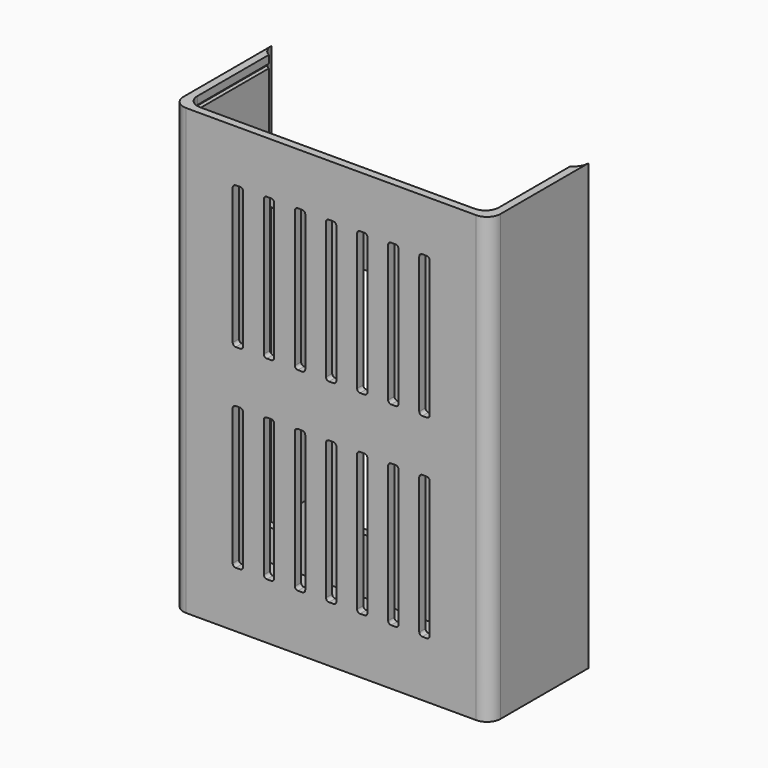
from build123d import *

# Parameters (mm, degrees)
PAD_DEPTH              = 85.8
POCKET_DEPTH           = 85
SKETCH002_W            = 7
SKETCH002_H            = 54.5
POCKET001_DEPTH        = 4.5
POCKET002_DEPTH        = 5
LINEARPATTERN_COUNT    = 7
LINEARPATTERN_PITCH    = 6
SKETCH004_W            = 58.2
SKETCH004_H            = 3
POCKET003_DEPTH        = 20
PAD001_DEPTH           = 6
LINEARPATTERN001_COUNT = 3
LINEARPATTERN001_PITCH = 18
POCKET004_DEPTH        = 5
PAD002_DEPTH           = 50
SKETCH009_W            = 19
SKETCH009_H            = 0.8
POCKET005_DEPTH        = 0.8
SKETCH010_W            = 22
SKETCH010_H            = 0.8
POCKET006_DEPTH        = 0.8


with BuildPart() as part:
    # Sketch → Pad (new body)
    with BuildSketch(Plane.XY.offset(-0.8)):
        with BuildLine():
            Line((-30.6, -5.8), (-30.6, -26.999987))
            ThreePointArc((-30.6, -26.999987), (-29.838478, -28.838464), (-28, -29.599987))
            Line((-28, -29.599987), (28, -29.599987))
            ThreePointArc((28, -29.599987), (29.838478, -28.838464), (30.6, -26.999987))
            Line((30.6, -26.999987), (30.6, -5.8))
            ThreePointArc((27.799996, -8.599987), (29.779893, -7.779892), (30.6, -5.8))
            Line((27.799996, -8.599987), (-27.799996, -8.599987))
            ThreePointArc((-30.6, -5.8), (-29.779893, -7.779892), (-27.799996, -8.599987))
        make_face()
    extrude(amount=PAD_DEPTH)

    # Sketch001 → Pocket (cut)
    with BuildSketch(Plane.XY.offset(85)):
        with BuildLine():
            Line((-29.1, -10.099987), (-29.1, -25.499987))
            ThreePointArc((-29.1, -25.499987), (-28.338478, -27.338464), (-26.5, -28.099987))
            Line((-26.5, -28.099987), (26.5, -28.099987))
            ThreePointArc((26.5, -28.099987), (28.338478, -27.338464), (29.1, -25.499987))
            Line((29.1, -25.499987), (29.1, -10.099987))
            Line((29.1, -10.099987), (-29.1, -10.099987))
        make_face()
    extrude(amount=-POCKET_DEPTH, mode=Mode.SUBTRACT)

    # Sketch002 → Pocket001 (cut, symmetric)
    with BuildSketch(Plane(origin=(0, -8.599987, -0.8), x_dir=(-1, 0, 0), z_dir=(0, 1, 0))):
        with Locations((24.9, 34.04)):
            Rectangle(SKETCH002_W, SKETCH002_H)
    extrude(amount=POCKET001_DEPTH, both=True, mode=Mode.SUBTRACT)

    # Sketch003 → Pocket002 (cut)
    with BuildSketch(Plane(origin=(0, -29.599987, -0.8), x_dir=(1, 0, 0), z_dir=(0, -1, 0))):
        with BuildLine():
            Line((17.572869, 75.790869), (18.427131, 75.790869))
            ThreePointArc((19, 75.218), (18.832211, 75.62308), (18.427131, 75.790869))
            Line((19, 75.218), (19, 48.8736))
            ThreePointArc((18.427131, 48.300731), (18.832211, 48.46852), (19, 48.8736))
            Line((18.427131, 48.300731), (17.572869, 48.300731))
            ThreePointArc((17, 48.8736), (17.167789, 48.46852), (17.572869, 48.300731))
            Line((17, 48.8736), (17, 75.218))
            ThreePointArc((17.572869, 75.790869), (17.167789, 75.62308), (17, 75.218))
        make_face()
        with BuildLine():
            Line((17.572869, 38.291469), (18.427131, 38.291469))
            ThreePointArc((19, 37.7186), (18.832211, 38.12368), (18.427131, 38.291469))
            Line((19, 37.7186), (19, 11.3742))
            ThreePointArc((18.427131, 10.801331), (18.832211, 10.96912), (19, 11.3742))
            Line((18.427131, 10.801331), (17.572869, 10.801331))
            ThreePointArc((17, 11.3742), (17.167789, 10.96912), (17.572869, 10.801331))
            Line((17, 11.3742), (17, 37.7186))
            ThreePointArc((17.572869, 38.291469), (17.167789, 38.12368), (17, 37.7186))
        make_face()
    pocket002 = extrude(amount=-POCKET002_DEPTH, mode=Mode.SUBTRACT)

    # LinearPattern: Pocket002 ×7
    with Locations(*[(-i * LINEARPATTERN_PITCH, 0, 0) for i in range(1, LINEARPATTERN_COUNT)]):
        add(pocket002, mode=Mode.SUBTRACT)

    # Sketch004 → Pocket003 (cut)
    with BuildSketch(Plane.XY.offset(85)):
        with Locations((0, -8.599987)):
            Rectangle(SKETCH004_W, SKETCH004_H)
    extrude(amount=-POCKET003_DEPTH, mode=Mode.SUBTRACT)

    # Sketch005 → Pad001 (new body)
    with BuildSketch(Plane(origin=(0, -10.099987, -0.8), x_dir=(1, 0, 0), z_dir=(0, -1, 0))):
        with BuildLine():
            Line((17.67, 56.57), (18.33, 56.57))
            ThreePointArc((18.9, 56), (18.733051, 56.403051), (18.33, 56.57))
            Line((18.9, 56), (18.9, 11.6228))
            ThreePointArc((18.33, 11.0528), (18.733051, 11.219749), (18.9, 11.6228))
            Line((18.33, 11.0528), (17.67, 11.0528))
            ThreePointArc((17.1, 11.6228), (17.266949, 11.219749), (17.67, 11.0528))
            Line((17.1, 11.6228), (17.1, 56))
            ThreePointArc((17.67, 56.57), (17.266949, 56.403051), (17.1, 56))
        make_face()
    pad001 = extrude(amount=-PAD001_DEPTH)

    # LinearPattern001: Pad001 ×3
    with Locations(*[(-i * LINEARPATTERN001_PITCH, 0, 0) for i in range(1, LINEARPATTERN001_COUNT)]):
        add(pad001)

    # Sketch006 → Pocket004 (cut)
    with BuildSketch(Plane(origin=(0, -8.599987, -0.8), x_dir=(-1, 0, 0), z_dir=(0, 1, 0))):
        with BuildLine():
            Line((-11.5, 56.5), (-7.5, 56.5))
            ThreePointArc((-5, 54), (-5.732233, 55.767767), (-7.5, 56.5))
            Line((-5, 54), (-5, 14))
            ThreePointArc((-7.5, 11.5), (-5.732233, 12.232233), (-5, 14))
            Line((-7.5, 11.5), (-11.5, 11.5))
            ThreePointArc((-14, 14), (-13.267767, 12.232233), (-11.5, 11.5))
            Line((-14, 14), (-14, 54))
            ThreePointArc((-11.5, 56.5), (-13.267767, 55.767767), (-14, 54))
        make_face()
        with BuildLine():
            Line((7.5, 56.5), (11.5, 56.5))
            ThreePointArc((14, 54), (13.267767, 55.767767), (11.5, 56.5))
            Line((14, 54), (14, 14))
            ThreePointArc((11.5, 11.5), (13.267767, 12.232233), (14, 14))
            Line((11.5, 11.5), (7.5, 11.5))
            ThreePointArc((5, 14), (5.732233, 12.232233), (7.5, 11.5))
            Line((5, 14), (5, 54))
            ThreePointArc((7.5, 56.5), (5.732233, 55.767767), (5, 54))
        make_face()
    extrude(amount=-POCKET004_DEPTH, mode=Mode.SUBTRACT)

    # Sketch007 → Pad002 (new body)
    with BuildSketch(Plane.XY.offset(65)):
        Polygon((18.375, -10.099987), (21.375, -10.099987), (21.375, -14.549987), (17.875, -14.549987), (17.875, -13.049987), (18.675, -13.049987), (18.675, -10.899987), (17.875, -10.899987), (17.875, -10.099987), align=None)
        Polygon((-17.875, -14.549987), (-21.375, -14.549987), (-21.375, -10.099987), (-18.375, -10.099987), (-17.875, -10.099987), (-17.875, -10.899987), (-18.675, -10.899987), (-18.675, -13.049987), (-17.875, -13.049987), align=None)
    extrude(amount=-PAD002_DEPTH)

    # Sketch009 → Pocket005 (cut)
    with BuildSketch(Plane(origin=(-29.1, 0, -0.8), x_dir=(0, 1, 0), z_dir=(1, 0, 0))):
        with Locations((-15.999987, 83.9)):
            Rectangle(SKETCH009_W, SKETCH009_H)
    extrude(amount=-POCKET005_DEPTH, mode=Mode.SUBTRACT)

    # Sketch010 → Pocket006 (cut)
    with BuildSketch(Plane(origin=(29.1, 0, -0.8), x_dir=(0, -1, 0), z_dir=(-1, 0, 0))):
        with Locations((14.499987, 83.87684)):
            Rectangle(SKETCH010_W, SKETCH010_H)
    extrude(amount=-POCKET006_DEPTH, mode=Mode.SUBTRACT)


solid = part.part
